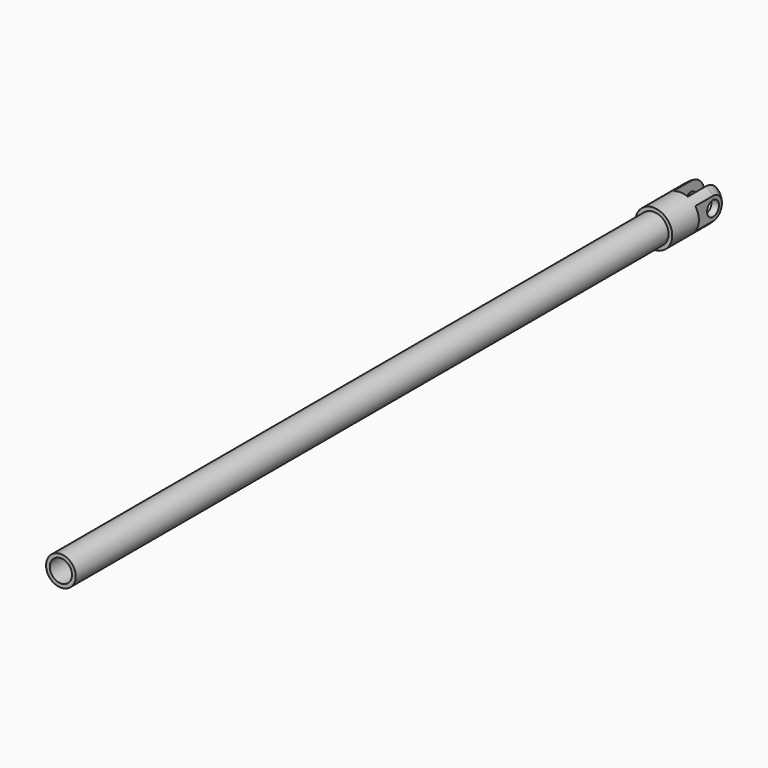
from build123d import *

# Parameters (mm, degrees)
F0_R      = 2
F1_DEPTH  = 50
F2_R      = 2.5
F3_DEPTH  = 10
F4_R      = 2.5
F5_W      = 2
F5_H      = 6
F5_W_2    = 1.038908
F5_H_2    = 6.017993
F5_W_3    = 1.0453
F5_H_3    = 6.056136
F6_DEPTH  = 12.5
F7_R      = 1
F8_DEPTH  = 4.7
F9_R      = 1.5
F10_DEPTH = 100


with BuildPart() as f1:
    # F0 (on Front) → F1 (new body, symmetric)
    with BuildSketch(Plane.XZ):
        Circle(F0_R)
    extrude(amount=F1_DEPTH, both=True)

    # F2 (on face) → F3 (join)
    with BuildSketch(Plane(origin=(0, 50, 0), x_dir=(-1, 0, 0), z_dir=(0, 1, 0))):
        Circle(F2_R)
    extrude(amount=F3_DEPTH)

    # F4
    f4_edges = [f1.edges().sort_by_distance(p)[0] for p in [
        (2.5, 60, 0),
    ]]
    fillet(f4_edges, radius=F4_R)

    # F5 (on Top) → F6 (cut, symmetric)
    with BuildSketch(Plane.XY):
        with Locations((0, 57.5)):
            Rectangle(F5_W, F5_H)
        with Locations((-2.519454, 57.508996)):
            Rectangle(F5_W_2, F5_H_2)
        with Locations((2.52265, 57.528068)):
            Rectangle(F5_W_3, F5_H_3)
    extrude(amount=F6_DEPTH, both=True, mode=Mode.SUBTRACT)

    # F7 (on face) → F8 (cut)
    with BuildSketch(Plane.YZ.offset(2)):
        with Locations((57.5, 0)):
            Circle(F7_R)
    extrude(amount=-F8_DEPTH, mode=Mode.SUBTRACT)

    # F9 (on face) → F10 (cut)
    with BuildSketch(Plane.XZ.offset(50)):
        Circle(F9_R)
    extrude(amount=-F10_DEPTH, mode=Mode.SUBTRACT)


solid = f1.part
